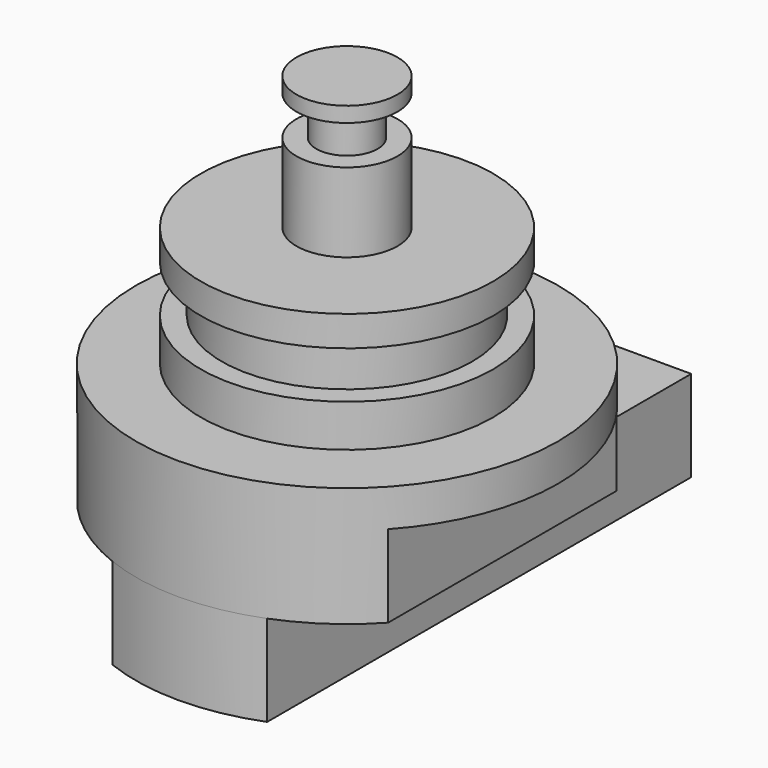
from build123d import *

# Parameters (mm, degrees)
F2_R     = 17.6784
F3_DEPTH = 3.1242
F5_DEPTH = 6.8961
F7_DEPTH = 7.62


with BuildPart() as f1:
    # F0 (on Front) → F1 (revolve)
    with BuildSketch(Plane.XZ):
        Polygon((0, 21.1963), (0, 0), (12.2428, 0), (12.2428, 3.5433), (10.48385, 3.5433), (10.48385, 7.4803), (12.2428, 7.4803), (12.2428, 10.0203), (4.2291, 10.0203), (4.2291, 16.6497), (2.5654, 16.6497), (2.5654, 19.9263), (4.2291, 19.9263), (4.2291, 21.1963), align=None)
    revolve(axis=Axis((0, 0, 10.59815), (0, 0, 1)))

    # F2 (on face) → F3 (join)
    with BuildSketch(Plane(origin=(0, 0, 0), x_dir=(1, 0, 0), z_dir=(0, 0, -1))):
        Circle(F2_R)
    extrude(amount=F3_DEPTH)

    # F4 (on face) → F5 (join)
    with BuildSketch(Plane(origin=(0, 0, -3.1242), x_dir=(1, 0, 0), z_dir=(0, 0, -1))):
        with BuildLine():
            Line((-13.0175, 11.961209), (-13.0175, -11.961209))
            ThreePointArc((-13.0175, -11.961209), (0, -17.6784), (13.0175, -11.961209))
            Line((13.0175, -11.961209), (13.0175, 11.961209))
            ThreePointArc((13.0175, 11.961209), (0, 17.6784), (-13.0175, 11.961209))
        make_face()
    extrude(amount=F5_DEPTH)

    # F6 (on face) → F7 (join)
    with BuildSketch(Plane(origin=(0, 0, -10.0203), x_dir=(1, 0, 0), z_dir=(0, 0, -1))):
        with BuildLine():
            ThreePointArc((-6.477, -16.449143), (0, -17.6784), (6.477, -16.449143))
            Line((6.477, -16.449143), (6.477, 16.449143))
            ThreePointArc((6.477, 16.449143), (0, 17.6784), (-6.477, 16.449143))
            Line((-6.477, 16.449143), (-6.477, -16.449143))
        make_face()
        with BuildLine():
            Line((-6.477, -27.94), (6.477, -27.94))
            Line((6.477, -27.94), (6.477, -16.449143))
            ThreePointArc((6.477, -16.449143), (0, -17.6784), (-6.477, -16.449143))
            Line((-6.477, -16.449143), (-6.477, -27.94))
        make_face()
    extrude(amount=F7_DEPTH)


solid = f1.part
